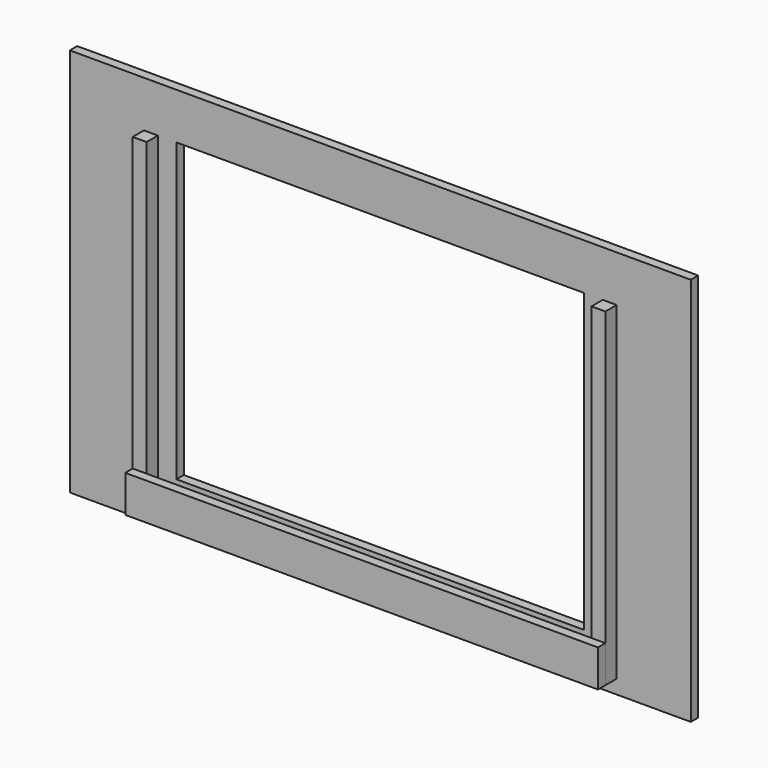
from build123d import *

# Parameters (mm, degrees)
F0_W     = 850.9
F0_H     = 533.4
F1_DEPTH = 12.7
F2_W     = 558.8
F2_H     = 406.4
F3_DEPTH = 12.7
F4_W     = 19.05
F4_H     = 431.8
F5_DEPTH = 19.304
F6_W     = 609.6
F6_H     = 31.75
F7_DEPTH = 12.7


with BuildPart() as f1:
    # F0 (on Front) → F1 (new body)
    with BuildSketch(Plane.XZ):
        Rectangle(F0_W, F0_H)
    extrude(amount=F1_DEPTH)

    # F2 (on face) → F3 (cut, through all)
    with BuildSketch(Plane.XZ.offset(12.7)):
        Rectangle(F2_W, F2_H)
    extrude(amount=-F3_DEPTH, mode=Mode.SUBTRACT)


with BuildPart() as f5:
    # F4 (on face) → F5 (new body)
    with BuildSketch(Plane.XZ.offset(12.7)):
        with Locations((-314.325, -12.7)):
            Rectangle(F4_W, F4_H)
        Polygon((-304.8, -228.6), (-323.85, -228.6), (-323.85, -247.65), (323.85, -247.65), (323.85, -228.6), (304.8, -228.6), align=None)
        with Locations((314.325, -12.7)):
            Rectangle(F4_W, F4_H)
    extrude(amount=F5_DEPTH)


with BuildPart() as f7:
    # F6 (on face) → F7 (new body)
    with BuildSketch(Plane.XZ.offset(32.004)):
        with Locations((0, -212.725)):
            Rectangle(F6_W, F6_H)
        Polygon((-323.85, -196.85), (-323.85, -247.65), (323.85, -247.65), (323.85, -196.85), (304.8, -196.85), (304.8, -228.6), (-304.8, -228.6), (-304.8, -196.85), align=None)
    extrude(amount=F7_DEPTH)


solid = Compound([f1.part, f5.part, f7.part])
